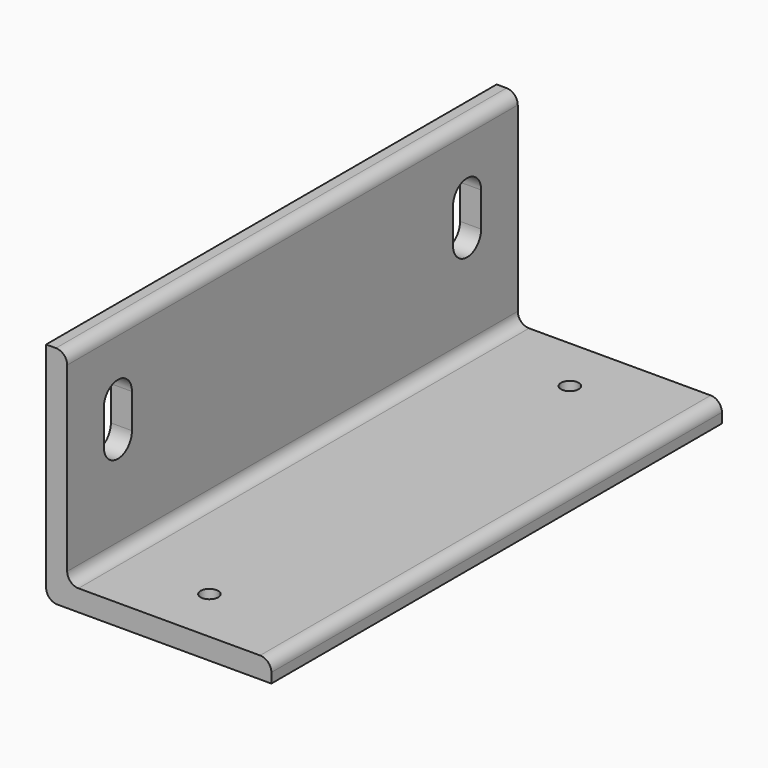
from build123d import *

# Parameters (mm, degrees)
F1_DEPTH = 127
F2_R     = 5.08
F4_DEPTH = 25.4
F5_R     = 3.96875
F6_DEPTH = 25.4


with BuildPart() as f1:
    # F0 (on Front) → F1 (new body, symmetric)
    with BuildSketch(Plane.XZ):
        Polygon((0, 101.6), (0, 0), (101.6, 0), (101.6, 9.525), (9.525, 9.525), (9.525, 101.6), align=None)
    extrude(amount=F1_DEPTH, both=True)

    # F2
    f2_edges = [f1.edges().sort_by_distance(p)[0] for p in [
        (9.525, 0, 9.525),
        (0, 0, 0),
        (9.525, 0, 101.6),
        (101.6, 0, 9.525),
    ]]
    fillet(f2_edges, radius=F2_R)

    # F3 (on face) → F4 (cut)
    with BuildSketch(Plane(origin=(0, 0, 0), x_dir=(0, -1, 0), z_dir=(-1, 0, 0))):
        with BuildLine():
            Line((-90.4875, 55.614824), (-90.4875, 71.166491))
            ThreePointArc((-90.4875, 71.166491), (-98.425, 79.103991), (-106.3625, 71.166491))
            Line((-106.3625, 71.166491), (-106.3625, 55.614824))
            ThreePointArc((-106.3625, 55.614824), (-98.425, 47.677324), (-90.4875, 55.614824))
        make_face()
        with BuildLine():
            ThreePointArc((90.4875, 55.614824), (98.425, 47.677324), (106.3625, 55.614824))
            Line((106.3625, 55.614824), (106.3625, 71.166491))
            ThreePointArc((106.3625, 71.166491), (98.425, 79.103991), (90.4875, 71.166491))
            Line((90.4875, 71.166491), (90.4875, 55.614824))
        make_face()
    extrude(amount=-F4_DEPTH, mode=Mode.SUBTRACT)

    # F5 (on face) → F6 (cut)
    with BuildSketch(Plane(origin=(0, 0, 0), x_dir=(1, 0, 0), z_dir=(0, 0, -1))):
        with Locations((53.34, 101.6)):
            Circle(F5_R)
        with Locations((53.34, -101.6)):
            Circle(F5_R)
    extrude(amount=-F6_DEPTH, mode=Mode.SUBTRACT)


solid = f1.part
